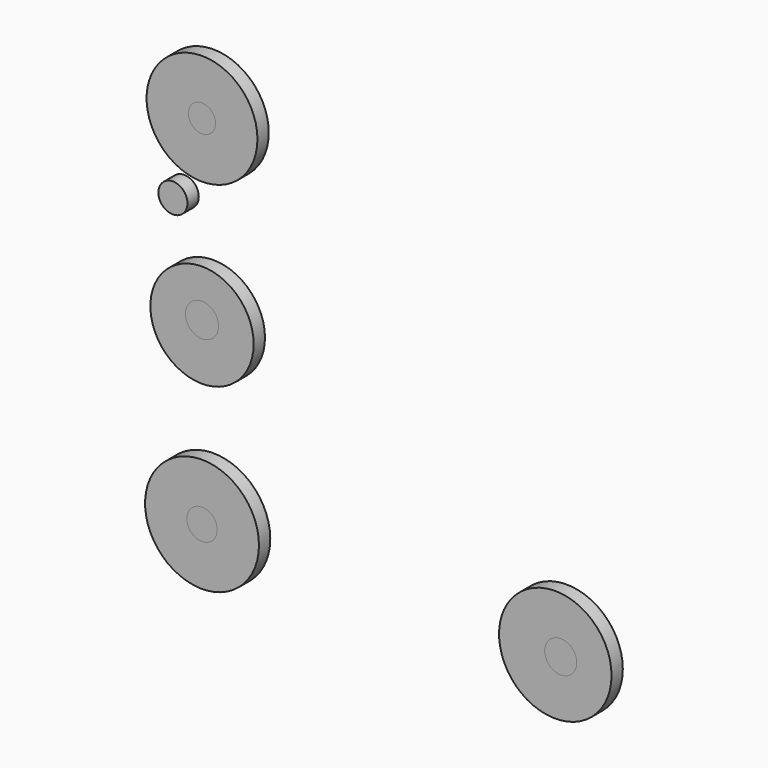
from build123d import *

# Parameters (mm, degrees)
F0_R     = 12.286097
F5_DEPTH = 3.048
F1_R     = 11.143561
F6_DEPTH = 3.048
F2_R     = 11.957844
F7_DEPTH = 3.048
F3_R     = 12.132038
F8_DEPTH = 3.048
F4_R     = 2.930383
F4_R_2   = 3.569081
F4_R_3   = 3.267377
F4_R_4   = 3.454588
F4_R_5   = 3.139402
F9_DEPTH = 3.048


with BuildPart() as f5:
    # F0 (on Front) → F5 (new body)
    with BuildSketch(Plane.XZ):
        Circle(F0_R)
    extrude(amount=F5_DEPTH)


with BuildPart() as f6:
    # F1 (on Front) → F6 (new body)
    with BuildSketch(Plane.XZ):
        with Locations((0, 37.835278)):
            Circle(F1_R)
    extrude(amount=F6_DEPTH)


with BuildPart() as f7:
    # F2 (on Front) → F7 (new body)
    with BuildSketch(Plane.XZ):
        with Locations((0, 77.034526)):
            Circle(F2_R)
    extrude(amount=F7_DEPTH)


with BuildPart() as f8:
    # F3 (on Front) → F8 (new body)
    with BuildSketch(Plane.XZ):
        with Locations((76.228119, 0)):
            Circle(F3_R)
    extrude(amount=F8_DEPTH)


with BuildPart() as f9:
    # F4 (on Front) → F9 (new body)
    with BuildSketch(Plane.XZ):
        with Locations((0, 77.101022)):
            Circle(F4_R)
        with Locations((0, 38.806487)):
            Circle(F4_R_2)
        Circle(F4_R_3)
        with Locations((77.401124, 0)):
            Circle(F4_R_4)
        with Locations((-6.280935, 59.955794)):
            Circle(F4_R_5)
    extrude(amount=F9_DEPTH)


solid = Compound([f5.part, f6.part, f7.part, f8.part, f9.part])
